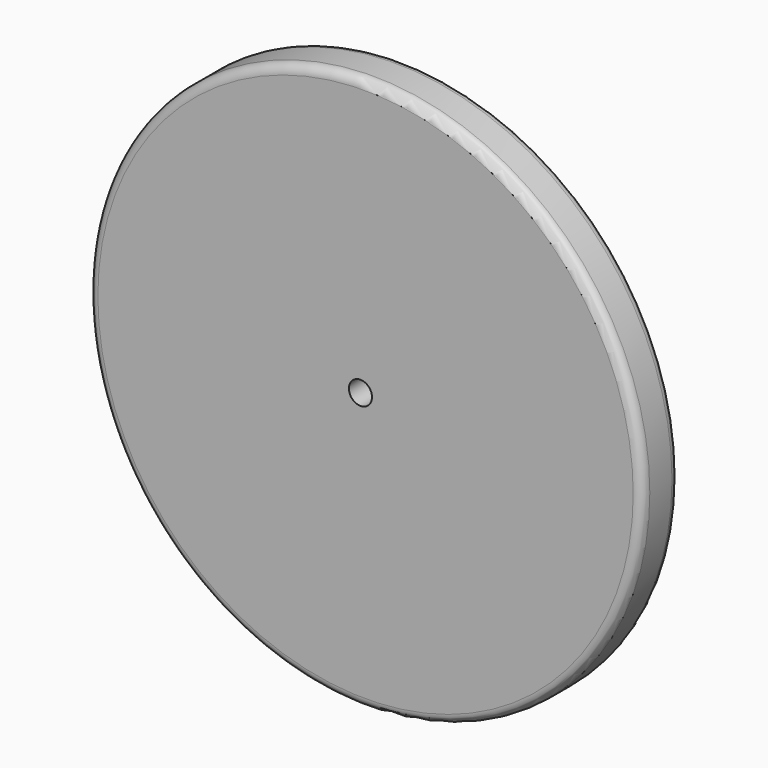
from build123d import *

# Parameters (mm, degrees)
F0_R     = 152.4
F1_DEPTH = 25.4
F2_R     = 5.08
F3_R     = 6.35
F4_DEPTH = 25.4


with BuildPart() as f1:
    # F0 (on Front) → F1 (new body)
    with BuildSketch(Plane.XZ):
        with Locations((2.800982, 0)):
            Circle(F0_R)
    extrude(amount=F1_DEPTH)

    # F2
    f2_edges = [f1.edges().sort_by_distance(p)[0] for p in [
        (-149.599018, -25.4, 0),
        (-149.599018, 0, 0),
    ]]
    fillet(f2_edges, radius=F2_R)

    # F3 (on face) → F4 (cut)
    with BuildSketch(Plane.XZ.offset(25.4)):
        Circle(F3_R)
    extrude(amount=-F4_DEPTH, mode=Mode.SUBTRACT)


solid = f1.part
